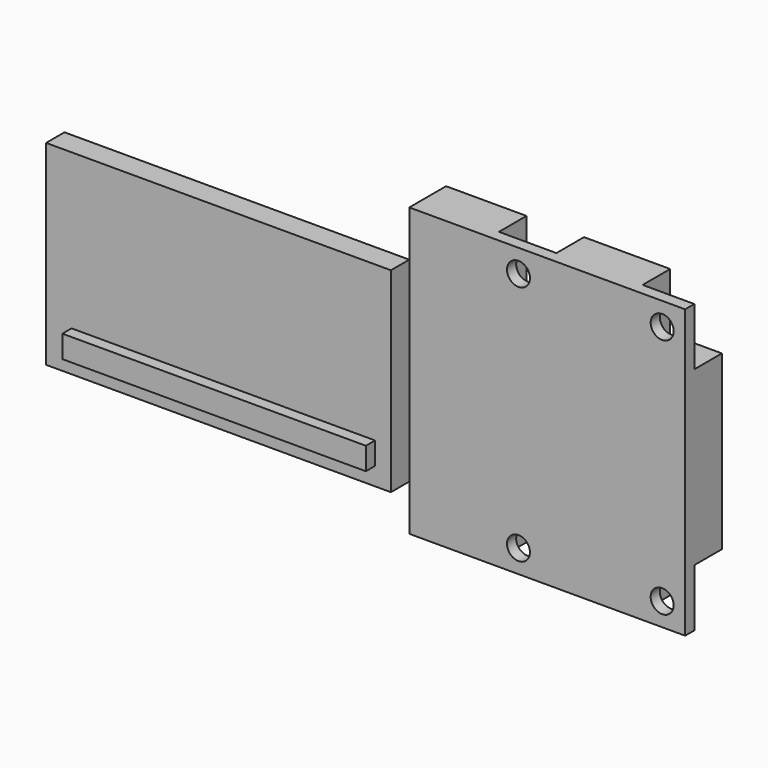
from build123d import *

# Parameters (mm, degrees)
F0_R     = 4
F1_DEPTH = 4
F0_W     = 30
F0_H     = 17
F0_W_2   = 26.403979
F0_H_2   = 1.952045
F2_DEPTH = 2
F0_W_3   = 4.5
F0_H_3   = 5
F0_R_2   = 1
F0_W_4   = 5
F3_DEPTH = 1
F4_DEPTH = 6.5
F5_DEPTH = 3


with BuildPart() as f1:
    # F0 (on Front) → F1 (new body)
    with BuildSketch(Plane.XZ):
        Polygon((-5, 12.5), (-12, 12.5), (-12, 8.5), (-12, -8.5), (-12, -12.5), (-5, -12.5), (-5, -7.5), (0, -7.5), (0, -12.5), (7.5, -12.5), (7.5, -7.5), (12, -7.5), (12, 7.5), (7.5, 7.5), (7.5, 12.5), (0, 12.5), (0, 7.5), (-5, 7.5), align=None)
        with Locations((-2.5, 0)):
            Circle(F0_R, mode=Mode.SUBTRACT)
    extrude(amount=-F1_DEPTH)

    # F0 (on Front) → F3 (join)
    with BuildSketch(Plane.XZ):
        with Locations((9.75, -10)):
            Rectangle(F0_W_3, F0_H_3)
        with Locations((10, -10.5)):
            Circle(F0_R_2, mode=Mode.SUBTRACT)
        with Locations((9.75, 10)):
            Rectangle(F0_W_3, F0_H_3)
        with Locations((10, 10.5)):
            Circle(F0_R_2, mode=Mode.SUBTRACT)
        with Locations((-2.5, 10)):
            Rectangle(F0_W_4, F0_H_3)
        with Locations((-2.5, 10.5)):
            Circle(F0_R_2, mode=Mode.SUBTRACT)
        with Locations((-2.5, -10)):
            Rectangle(F0_W_4, F0_H_3)
        with Locations((-2.5, -10.5)):
            Circle(F0_R_2, mode=Mode.SUBTRACT)
    extrude(amount=-F3_DEPTH)

    # F0 (on Front) → F4 (join)
    with BuildSketch(Plane.XZ):
        with Locations((-2.5, 0)):
            Circle(F0_R)
    extrude(amount=-F4_DEPTH)


with BuildPart() as f2:
    # F0 (on Front) → F2 (new body)
    with BuildSketch(Plane.XZ):
        with Locations((-27, 0)):
            Rectangle(F0_W, F0_H)
        with Locations((-26.576995, -5.958562)):
            Rectangle(F0_W_2, F0_H_2, mode=Mode.SUBTRACT)
    extrude(amount=F2_DEPTH)

    # F0 (on Front) → F5 (join)
    with BuildSketch(Plane.XZ):
        with Locations((-26.576995, -5.958562)):
            Rectangle(F0_W_2, F0_H_2)
    extrude(amount=F5_DEPTH)


solid = Compound([f1.part, f2.part])
